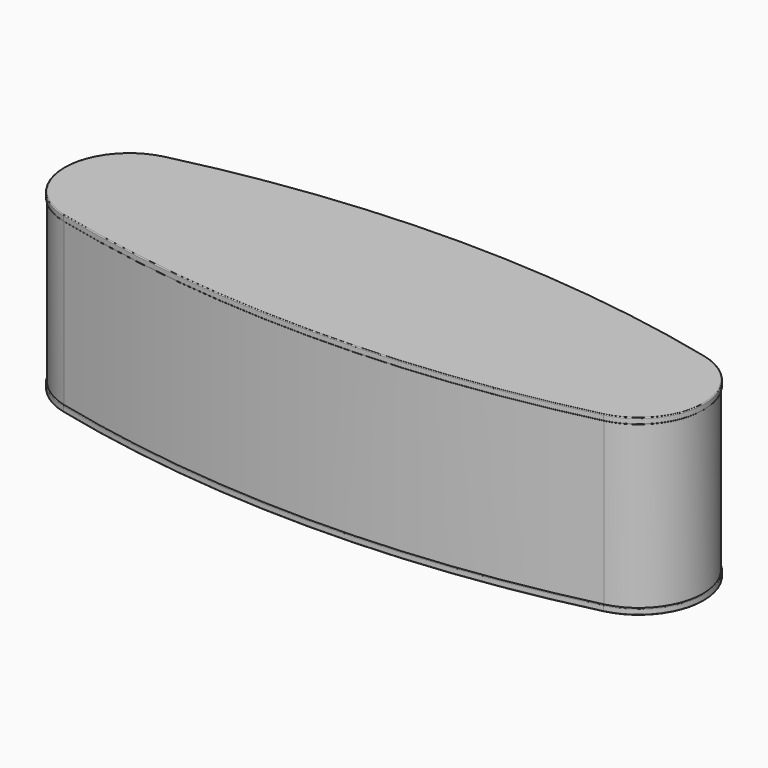
from build123d import *

# Parameters (mm, degrees)
F1_DEPTH = 80
F0_W     = 250
F0_H     = 58
F0_W_2   = 240
F0_H_2   = 48
F2_DEPTH = 3
F6_DEPTH = 3
F7_R     = 0.4
F7_2_R   = 0.4


with BuildPart() as f1:
    # F0 (on Top) → F1 (new body)
    with BuildSketch(Plane.XY):
        with BuildLine():
            ThreePointArc((133.503282126, -30.9117909157), (157.83995965, 0), (133.503282126, 30.9117909157))
            ThreePointArc((133.503282126, 30.9117909157), (0, 46.8), (-133.503282126, 30.9117909157))
            ThreePointArc((-133.503282126, 30.9117909157), (-157.83995965, 0), (-133.503282126, -30.9117909157))
            ThreePointArc((-133.503282126, -30.9117909157), (0, -46.8), (133.503282126, -30.9117909157))
        make_face()
        with BuildLine():
            ThreePointArc((-125, 29), (0, 43), (125, 29))
            ThreePointArc((125, 29), (128.8088011875, 28.1221277515), (132.6114385597, 27.2179291082))
            ThreePointArc((132.6114385597, 27.2179291082), (154.03995965, 0), (132.6114385597, -27.2179291082))
            ThreePointArc((132.6114385597, -27.2179291082), (128.8088011875, -28.1221277515), (125, -29))
            ThreePointArc((125, -29), (0, -43), (-125, -29))
            ThreePointArc((-125, -29), (-128.8088011875, -28.1221277515), (-132.6114385597, -27.2179291082))
            ThreePointArc((-132.6114385597, -27.2179291082), (-154.03995965, 0), (-132.6114385597, 27.2179291082))
            ThreePointArc((-132.6114385597, 27.2179291082), (-128.8088011875, 28.1221277515), (-125, 29))
        make_face(mode=Mode.SUBTRACT)
    extrude(amount=F1_DEPTH)


with BuildPart() as f1b:
    # F0 (on Top) → F1, piece 2 (new body)
    with BuildSketch(Plane.XY):
        Rectangle(F0_W, F0_H)
        Rectangle(F0_W_2, F0_H_2, mode=Mode.SUBTRACT)
    extrude(amount=F1_DEPTH)


with BuildPart() as f2:
    # F0 (on Top) + F1_face (on face) → F2 (new body)
    with BuildSketch(Plane.XY):
        with BuildLine():
            ThreePointArc((133.5971603962, -31.3006184744), (158.23995965, 0), (133.5971603962, 31.3006184744))
            ThreePointArc((133.5971603962, 31.3006184744), (0, 47.2), (-133.5971603962, 31.3006184744))
            ThreePointArc((-133.5971603962, 31.3006184744), (-158.23995965, 0), (-133.5971603962, -31.3006184744))
            ThreePointArc((-133.5971603962, -31.3006184744), (0, -47.2), (133.5971603962, -31.3006184744))
        make_face()
        with BuildLine():
            ThreePointArc((-133.503282126, 30.9117909157), (0, 46.8), (133.503282126, 30.9117909157))
            ThreePointArc((133.503282126, 30.9117909157), (157.83995965, 0), (133.503282126, -30.9117909157))
            ThreePointArc((133.503282126, -30.9117909157), (0, -46.8), (-133.503282126, -30.9117909157))
            ThreePointArc((-133.503282126, -30.9117909157), (-157.83995965, 0), (-133.503282126, 30.9117909157))
        make_face(mode=Mode.SUBTRACT)
        with BuildLine():
            ThreePointArc((132.6114385597, 27.2179291082), (128.8088011875, 28.1221277515), (125, 29))
            Line((125, 29), (125, -29))
            ThreePointArc((125, -29), (128.8088011875, -28.1221277515), (132.6114385597, -27.2179291082))
            ThreePointArc((132.6114385597, -27.2179291082), (154.03995965, 0), (132.6114385597, 27.2179291082))
        make_face()
        with BuildLine():
            Line((-125, 29), (125, 29))
            ThreePointArc((125, 29), (0, 43), (-125, 29))
        make_face()
        Rectangle(F0_W, F0_H)
        Rectangle(F0_W_2, F0_H_2, mode=Mode.SUBTRACT)
        Rectangle(F0_W_2, F0_H_2)
        with BuildLine():
            ThreePointArc((-125, -29), (0, -43), (125, -29))
            Line((125, -29), (-125, -29))
        make_face()
        with BuildLine():
            Line((-125, -29), (-125, 29))
            ThreePointArc((-125, 29), (-128.8088011875, 28.1221277515), (-132.6114385597, 27.2179291082))
            ThreePointArc((-132.6114385597, 27.2179291082), (-154.03995965, 0), (-132.6114385597, -27.2179291082))
            ThreePointArc((-132.6114385597, -27.2179291082), (-128.8088011875, -28.1221277515), (-125, -29))
        make_face()
    with BuildSketch(Plane(origin=(1.1e-09, 0, 0), x_dir=(1, 0, 0), z_dir=(0, 0, -1))):
        with BuildLine():
            ThreePointArc((-133.5032821272, 30.9117909157), (-157.8399596511, 0), (-133.5032821272, -30.9117909158))
            ThreePointArc((-133.5032821272, -30.9117909158), (-1.1e-09, -46.8), (133.5032821249, -30.9117909158))
            ThreePointArc((133.5032821249, -30.9117909158), (157.8399596489, 0), (133.5032821249, 30.9117909157))
            ThreePointArc((133.5032821249, 30.9117909157), (-1.1e-09, 46.8), (-133.5032821272, 30.9117909157))
        make_face()
        with BuildLine():
            ThreePointArc((132.6114385585, -27.2179291081), (-1.2e-09, -43), (-132.6114385609, -27.2179291082))
            ThreePointArc((-132.6114385609, -27.2179291082), (-154.0399596511, 0), (-132.6114385609, 27.2179291082))
            ThreePointArc((-132.6114385609, 27.2179291083), (-1.1e-09, 43), (132.6114385586, 27.2179291082))
            ThreePointArc((132.6114385586, 27.2179291082), (154.0399596489, 0), (132.6114385586, -27.2179291082))
        make_face(mode=Mode.SUBTRACT)
    extrude(amount=-F2_DEPTH, dir=(0, 0, 1))

    # F3: union 

    # F4: union 

    # F7#2
    f7_2_edges = [f2.edges().sort_by_distance(p)[0] for p in [
        (-158.23996, 0, 0),
        (0, -47.2, 0),
        (158.23996, 0, 0),
        (0, 47.2, 0),
        (-158.23996, 0, -3),
        (0, -47.2, -3),
        (158.23996, 0, -3),
        (0, 47.2, -3),
    ]]
    fillet(f7_2_edges, radius=F7_2_R)


with BuildPart() as f6:
    # F5 (on face) → F6 (new body)
    with BuildSketch(Plane.XY.offset(80)):
        with BuildLine():
            ThreePointArc((-133.5971603962, 31.3006184744), (-158.23995965, 0), (-133.5971603962, -31.3006184744))
            ThreePointArc((-133.5971603962, -31.3006184744), (0, -47.2), (133.5971603962, -31.3006184744))
            ThreePointArc((133.5971603962, -31.3006184744), (158.23995965, 0), (133.5971603962, 31.3006184744))
            ThreePointArc((133.5971603962, 31.3006184744), (0, 47.2), (-133.5971603962, 31.3006184744))
        make_face()
    extrude(amount=F6_DEPTH)

    # F7
    f7_edges = [f6.edges().sort_by_distance(p)[0] for p in [
        (-158.23996, 0, 83),
        (0, -47.2, 83),
        (158.23996, 0, 83),
        (0, 47.2, 83),
        (-158.23996, 0, 80),
        (0, -47.2, 80),
        (158.23996, 0, 80),
        (0, 47.2, 80),
    ]]
    fillet(f7_edges, radius=F7_R)


solid = Compound([f1.part, f1b.part, f2.part, f6.part])
